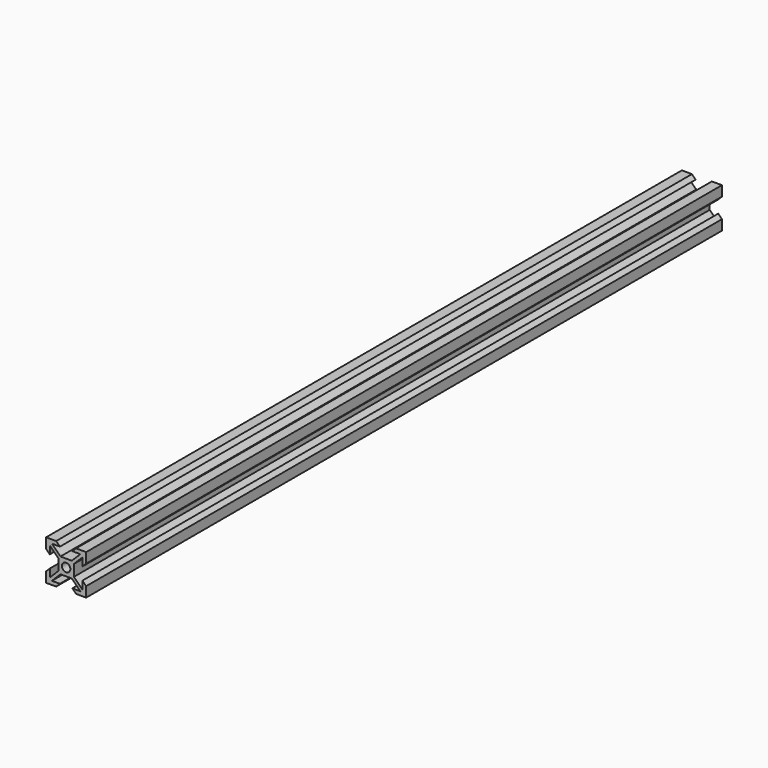
from build123d import *

# Parameters (mm, degrees)
SKETCH_R  = 2.1
PAD_DEPTH = 396.5


with BuildPart() as part:
    # Sketch → Pad (new body)
    with BuildSketch(Plane.XZ):
        Polygon((0, 0), (5.05, 0), (6.9, 1.85), (2.91066, 1.85), (7.16066, 6.1), (12.83934, 6.1), (17.08934, 1.85), (13.1, 1.85), (14.95, 0), (20, 0), (20, 5.05), (18.15, 6.9), (18.15, 2.91066), (13.9, 7.16066), (13.9, 12.83934), (18.15, 17.08934), (18.15, 13.1), (20, 14.95), (20, 20), (14.95, 20), (13.1, 18.15), (17.08934, 18.15), (12.83934, 13.9), (7.16066, 13.9), (2.91066, 18.15), (6.9, 18.15), (5.05, 20), (0, 20), (0, 14.95), (1.85, 13.1), (1.85, 17.08934), (6.1, 12.83934), (6.1, 7.16066), (1.85, 2.91066), (1.85, 6.9), (0, 5.05), align=None)
        with Locations((10, 10)):
            Circle(SKETCH_R, mode=Mode.SUBTRACT)
    extrude(amount=PAD_DEPTH)


solid = part.part
